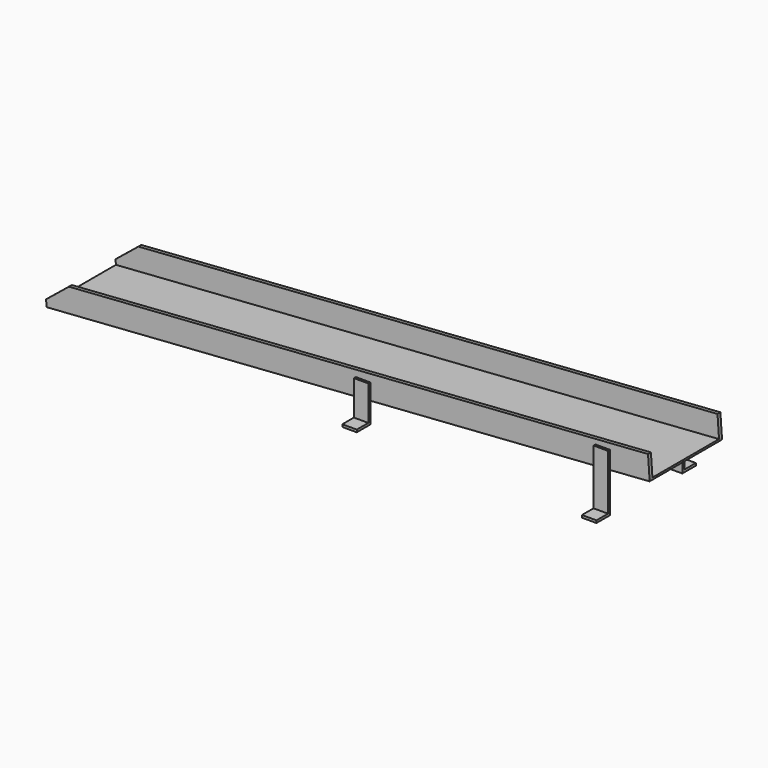
from build123d import *

# Parameters (mm, degrees)
F1_DEPTH = 187.5
F2_W     = 2506.2565537025
F2_H     = 15
F3_DEPTH = 90
F4_W     = 60
F4_H     = 10
F5_DEPTH = 70
F4_H_2   = 228.9615774155
F4_H_3   = 143.8855462986
F6_DEPTH = 10
F9_DEPTH = 375


with BuildPart() as f1:
    # F0 (on Front) → F1 (new body, symmetric)
    with BuildSketch(Plane.XZ):
        Polygon((-1084.3461751938, 8.0200209718), (-1084.3461751938, 0), (1415.6538248062, 176.9799790282), (1415.6538248062, 185), align=None)
    extrude(amount=F1_DEPTH, both=True)

    # F2 (on face) → F3 (join)
    with BuildSketch(Plane(origin=(-5.9720318293, 0, 84.3602742827), x_dir=(0.997503626, 0, 0.0706152683), z_dir=(-0.0706152683, 0, 0.997503626))):
        with Locations((172.0553711911, -180)):
            Rectangle(F2_W, F2_H)
        with Locations((172.0553711911, 180)):
            Rectangle(F2_W, F2_H)
    extrude(amount=F3_DEPTH)



with BuildPart() as f5:
    # F4 (on face) → F5 (new body)
    with BuildSketch(Plane.XZ.offset(187.5)):
        with Locations((228.0231494724, 13.0200209718)):
            Rectangle(F4_W, F4_H)
    extrude(amount=F5_DEPTH)


with BuildPart() as f5b:
    # F4 (on face) → F5, piece 2 (new body)
    with BuildSketch(Plane.XZ.offset(187.5)):
        with Locations((1221.529750824, 5)):
            Rectangle(F4_W, F4_H)
    extrude(amount=F5_DEPTH)


with BuildPart() as f1_1:
    add(f1.part)

    add(f5.part)  # F6 merges F5

    add(f5b.part)  # F6 merges F5b
    # F4 (on face) → F6 (join)
    with BuildSketch(Plane.XZ.offset(187.5)):
        with Locations((1221.529750824, 124.4807887077)):
            Rectangle(F4_W, F4_H_2)
        with Locations((1221.529750824, 5)):
            Rectangle(F4_W, F4_H)
        with Locations((228.0231494724, 89.9627941211)):
            Rectangle(F4_W, F4_H_3)
        with Locations((228.0231494724, 13.0200209718)):
            Rectangle(F4_W, F4_H)
    extrude(amount=F6_DEPTH)

    # F7: F1 across plane


with BuildPart() as f1_2:
    add(f1_1.part)
    add(f1_1.part.mirror(Plane.XZ))

    # F8 (on face) → F9 (cut, through all)
    with BuildSketch(Plane.XZ.offset(187.5)):
        Polygon((-1085.7584805603, 27.9700934918), (-990.9511867431, 104.8568741441), (-1090.7015493429, 97.7953473117), align=None)
    extrude(amount=-F9_DEPTH, mode=Mode.SUBTRACT)


solid = f1_2.part
